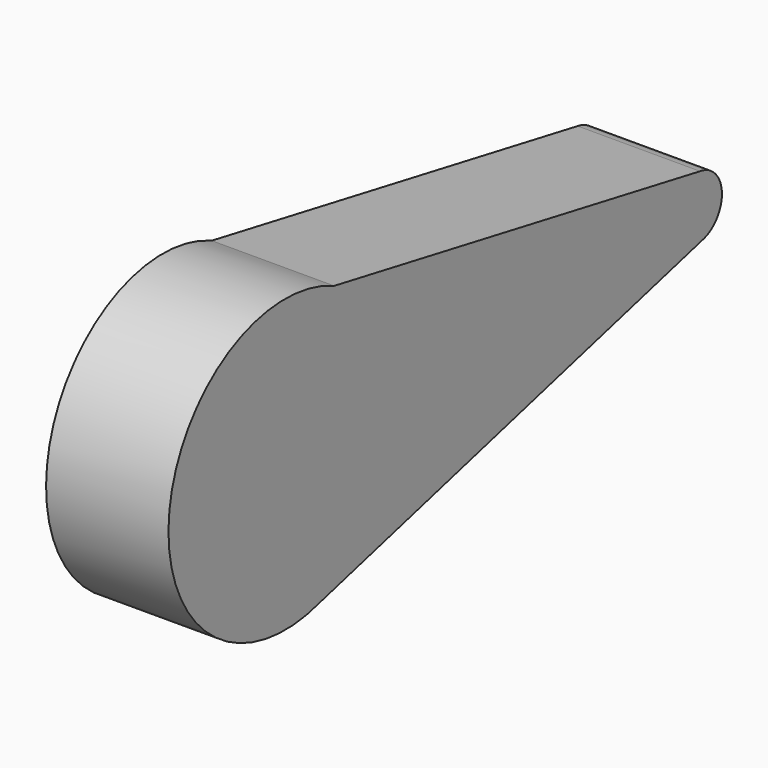
from build123d import *

# Parameters (mm, degrees)
F1_DEPTH = 25


with BuildPart() as f1:
    # F0 (on Right) → F1 (new body)
    with BuildSketch(Plane.YZ):
        with BuildLine():
            ThreePointArc((5.81453, -31.705164), (20.904065, -20.916165), (26.680938, -3.288791))
            ThreePointArc((26.680938, -3.288791), (21.999843, 12.73976), (9.428084, 23.729661))
            ThreePointArc((9.428084, 23.729661), (-32.820494, -1.351527), (5.81453, -31.705164))
        make_face()
        with BuildLine():
            ThreePointArc((9.428084, 23.729661), (21.999843, 12.73976), (26.680938, -3.288791))
            ThreePointArc((26.680938, -3.288791), (20.904065, -20.916165), (5.81453, -31.705164))
            Line((5.81453, -31.705164), (103.305496, -6.28672))
            ThreePointArc((103.305496, -6.28672), (95.581705, -0.235054), (102.842035, 6.365493))
            Line((102.842035, 6.365493), (9.428084, 23.729661))
        make_face()
        with BuildLine():
            ThreePointArc((108.419674, 0), (106.827989, 4.231712), (102.842035, 6.365493))
            ThreePointArc((102.842035, 6.365493), (95.581705, -0.235054), (103.305496, -6.28672))
            Line((103.305496, -6.28672), (103.92752, -6.124542))
            ThreePointArc((103.92752, -6.124542), (107.176242, -3.797679), (108.419674, 0))
        make_face()
    extrude(amount=F1_DEPTH)


solid = f1.part
